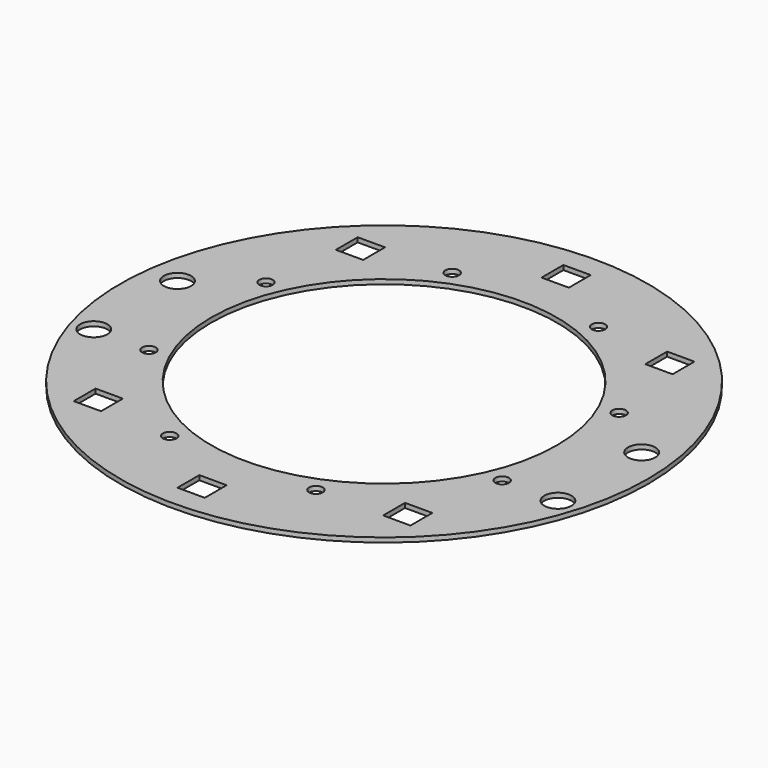
from build123d import *

# Parameters (mm, degrees)
CYLINDER445_R               = 1.5
CYLINDER445_DEPTH           = 100
CYLINDER446_R               = 1.5
CYLINDER446_DEPTH           = 100
CYLINDER446_PLACEMENT_ANGLE = 135
CYLINDER447_R               = 1.5
CYLINDER447_DEPTH           = 100
CYLINDER448_R               = 1.5
CYLINDER448_DEPTH           = 100
CYLINDER448_PLACEMENT_ANGLE = 225
CYLINDER449_R               = 1.5
CYLINDER449_DEPTH           = 100
CYLINDER450_R               = 1.5
CYLINDER450_DEPTH           = 100
CYLINDER450_PLACEMENT_ANGLE = 45
CYLINDER451_R               = 1.5
CYLINDER451_DEPTH           = 100
CYLINDER444_R               = 1.5
CYLINDER444_DEPTH           = 100
CYLINDER444_PLACEMENT_ANGLE = 45
BOX154_W                    = 6
BOX154_H                    = 6
BOX154_DEPTH                = 10
BOX151_W                    = 6
BOX151_H                    = 6
BOX151_DEPTH                = 10
BOX155_W                    = 6
BOX155_H                    = 6
BOX155_DEPTH                = 10
BOX153_W                    = 6
BOX153_H                    = 6
BOX153_DEPTH                = 10
BOX156_W                    = 6
BOX156_H                    = 6
BOX156_DEPTH                = 10
BOX152_W                    = 6
BOX152_H                    = 6
BOX152_DEPTH                = 10
CYLINDER407_R               = 3
CYLINDER407_DEPTH           = 7
CYLINDER405_R               = 3
CYLINDER405_DEPTH           = 7
CYLINDER404_R               = 3
CYLINDER404_DEPTH           = 7
CYLINDER406_R               = 3
CYLINDER406_DEPTH           = 7
TUBE020_R                   = 58
TUBE020_R_2                 = 38
TUBE020_DEPTH               = 1


with BuildPart() as obj1:
    # Cylinder445 → Cylinder445 (new body)
    with BuildSketch(Plane(origin=(38.80294, -16.072704, 0), x_dir=(0, 1, 0), z_dir=(0, 0, 1))):
        Circle(CYLINDER445_R)
    extrude(amount=CYLINDER445_DEPTH)


with BuildPart() as obj2:
    # Cylinder446 → Cylinder446 (new body)
    with BuildSketch(Plane.XY):
        Circle(CYLINDER446_R)
    extrude(amount=CYLINDER446_DEPTH)


with BuildPart() as obj2_1:
    # Cylinder446 placement: moved
    add(obj2.part.moved(Location((38.80294, 16.072704, 0))).rotate(Axis((38.80294, 16.072704, 0), (0, 0, 1)), CYLINDER446_PLACEMENT_ANGLE))


with BuildPart() as obj3:
    # Cylinder447 → Cylinder447 (new body)
    with BuildSketch(Plane(origin=(16.072704, 38.80294, 0), x_dir=(-1, 0, 0), z_dir=(0, 0, 1))):
        Circle(CYLINDER447_R)
    extrude(amount=CYLINDER447_DEPTH)


with BuildPart() as obj4:
    # Cylinder448 → Cylinder448 (new body)
    with BuildSketch(Plane.XY):
        Circle(CYLINDER448_R)
    extrude(amount=CYLINDER448_DEPTH)


with BuildPart() as obj4_1:
    # Cylinder448 placement: moved
    add(obj4.part.moved(Location((-16.072704, 38.80294, 0))).rotate(Axis((-16.072704, 38.80294, 0), (0, 0, 1)), CYLINDER448_PLACEMENT_ANGLE))


with BuildPart() as obj5:
    # Cylinder449 → Cylinder449 (new body)
    with BuildSketch(Plane(origin=(-38.80294, 16.072704, 0), x_dir=(0, -1, 0), z_dir=(0, 0, 1))):
        Circle(CYLINDER449_R)
    extrude(amount=CYLINDER449_DEPTH)


with BuildPart() as obj6:
    # Cylinder450 → Cylinder450 (new body)
    with BuildSketch(Plane.XY):
        Circle(CYLINDER450_R)
    extrude(amount=CYLINDER450_DEPTH)


with BuildPart() as obj6_1:
    # Cylinder450 placement: moved
    add(obj6.part.moved(Location((-38.80294, -16.072704, 0))).rotate(Axis((-38.80294, -16.072704, 0), (0, 0, -1)), CYLINDER450_PLACEMENT_ANGLE))


with BuildPart() as obj7:
    # Cylinder451 → Cylinder451 (new body)
    with BuildSketch(Plane(origin=(-16.072704, -38.80294, 0), x_dir=(1, 0, 0), z_dir=(0, 0, 1))):
        Circle(CYLINDER451_R)
    extrude(amount=CYLINDER451_DEPTH)


with BuildPart() as compound325:
    # Cylinder444 → Cylinder444 (new body)
    with BuildSketch(Plane.XY):
        Circle(CYLINDER444_R)
    extrude(amount=CYLINDER444_DEPTH)


with BuildPart() as compound325_1:
    # Cylinder444 placement: moved
    add(compound325.part.moved(Location((16.072704, -38.80294, 0))).rotate(Axis((16.072704, -38.80294, 0), (0, 0, 1)), CYLINDER444_PLACEMENT_ANGLE))

    # Compound325: union obj1, obj2, obj3, obj4, obj5, obj6, obj7
    add(obj1.part)
    add(obj2_1.part)
    add(obj3.part)
    add(obj4_1.part)
    add(obj5.part)
    add(obj6_1.part)
    add(obj7.part)


with BuildPart() as krychle154:
    # Box154 → Box154 (new body)
    with BuildSketch(Plane(origin=(-37, -39, 40), x_dir=(1, 0, 0), z_dir=(0, 0, 1))):
        with Locations((3, 3)):
            Rectangle(BOX154_W, BOX154_H)
    extrude(amount=BOX154_DEPTH)


with BuildPart() as krychle151:
    # Box151 → Box151 (new body)
    with BuildSketch(Plane(origin=(-3, -53, 40), x_dir=(1, 0, 0), z_dir=(0, 0, 1))):
        with Locations((3, 3)):
            Rectangle(BOX151_W, BOX151_H)
    extrude(amount=BOX151_DEPTH)


with BuildPart() as krychle155:
    # Box155 → Box155 (new body)
    with BuildSketch(Plane(origin=(31, 33, 40), x_dir=(1, 0, 0), z_dir=(0, 0, 1))):
        with Locations((3, 3)):
            Rectangle(BOX155_W, BOX155_H)
    extrude(amount=BOX155_DEPTH)


with BuildPart() as krychle153:
    # Box153 → Box153 (new body)
    with BuildSketch(Plane(origin=(-37, 33, 40), x_dir=(1, 0, 0), z_dir=(0, 0, 1))):
        with Locations((3, 3)):
            Rectangle(BOX153_W, BOX153_H)
    extrude(amount=BOX153_DEPTH)


with BuildPart() as krychle156:
    # Box156 → Box156 (new body)
    with BuildSketch(Plane(origin=(31, -39, 40), x_dir=(1, 0, 0), z_dir=(0, 0, 1))):
        with Locations((3, 3)):
            Rectangle(BOX156_W, BOX156_H)
    extrude(amount=BOX156_DEPTH)


with BuildPart() as compound316:
    # Box152 → Box152 (new body)
    with BuildSketch(Plane(origin=(-3, 47, 40), x_dir=(1, 0, 0), z_dir=(0, 0, 1))):
        with Locations((3, 3)):
            Rectangle(BOX152_W, BOX152_H)
    extrude(amount=BOX152_DEPTH)

    # Compound316: union Krychle154, Krychle151, Krychle155, Krychle153, Krychle156
    add(krychle154.part)
    add(krychle151.part)
    add(krychle155.part)
    add(krychle153.part)
    add(krychle156.part)


with BuildPart() as compound316_1:
    # Compound316 placement: moved
    add(compound316.part.moved(Location((0, 0, -18))))


with BuildPart() as obj8:
    # Cylinder407 → Cylinder407 (new body)
    with BuildSketch(Plane(origin=(51, -16, 50), x_dir=(1, 0, 0), z_dir=(0, 0, 1))):
        Circle(CYLINDER407_R)
    extrude(amount=CYLINDER407_DEPTH)


with BuildPart() as obj9:
    # Cylinder405 → Cylinder405 (new body)
    with BuildSketch(Plane(origin=(51, 7, 50), x_dir=(1, 0, 0), z_dir=(0, 0, 1))):
        Circle(CYLINDER405_R)
    extrude(amount=CYLINDER405_DEPTH)


with BuildPart() as obj10:
    # Cylinder404 → Cylinder404 (new body)
    with BuildSketch(Plane(origin=(-51, 7, 50), x_dir=(1, 0, 0), z_dir=(0, 0, 1))):
        Circle(CYLINDER404_R)
    extrude(amount=CYLINDER404_DEPTH)


with BuildPart() as compound312:
    # Cylinder406 → Cylinder406 (new body)
    with BuildSketch(Plane(origin=(-51, -16, 50), x_dir=(1, 0, 0), z_dir=(0, 0, 1))):
        Circle(CYLINDER406_R)
    extrude(amount=CYLINDER406_DEPTH)

    # Compound312: union obj8, obj9, obj10
    add(obj8.part)
    add(obj9.part)
    add(obj10.part)


with BuildPart() as compound312_1:
    # Compound312 placement: moved
    add(compound312.part.moved(Location((0, 0, -25))))


with BuildPart() as cut173:
    # Tube020 → Tube020 (new body)
    with BuildSketch(Plane.XY.offset(31)):
        Circle(TUBE020_R)
        Circle(TUBE020_R_2, mode=Mode.SUBTRACT)
    extrude(amount=TUBE020_DEPTH)

    # Cut161: cut Compound312
    add(compound312_1.part, mode=Mode.SUBTRACT)

    # Cut163: cut Compound316
    add(compound316_1.part, mode=Mode.SUBTRACT)

    # Cut173: cut Compound325
    add(compound325_1.part, mode=Mode.SUBTRACT)


solid = cut173.part
